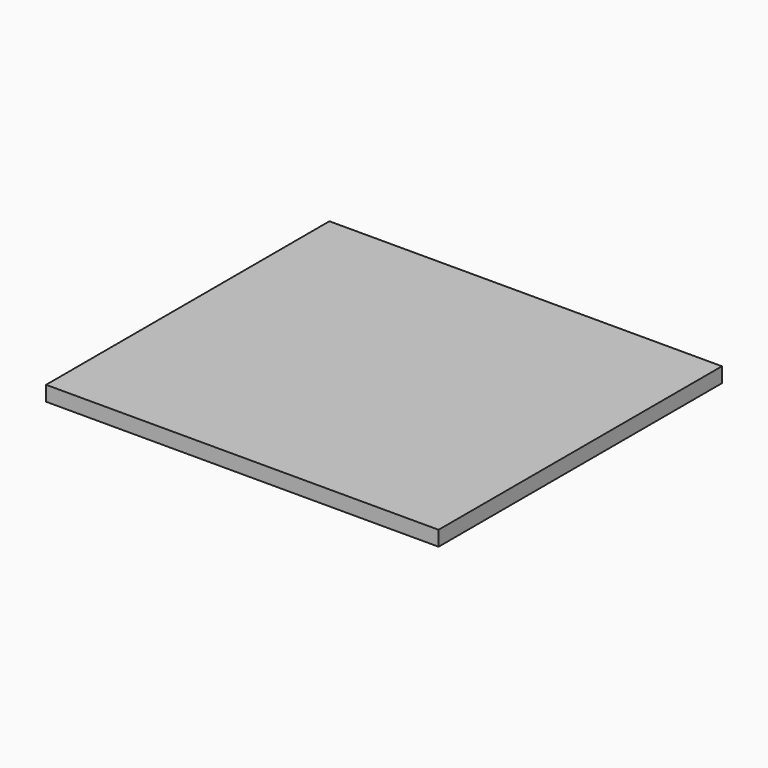
from build123d import *

# Parameters (mm, degrees)
SKETCH_W      = 157.48
SKETCH_H      = 142.0876
EXTRUDE_DEPTH = 5.9944


with BuildPart() as part:
    # Sketch → Extrude (new body)
    with BuildSketch(Plane.XY):
        with Locations((-21.205714, -23.312115)):
            Rectangle(SKETCH_W, SKETCH_H)
    extrude(amount=EXTRUDE_DEPTH)


solid = part.part
